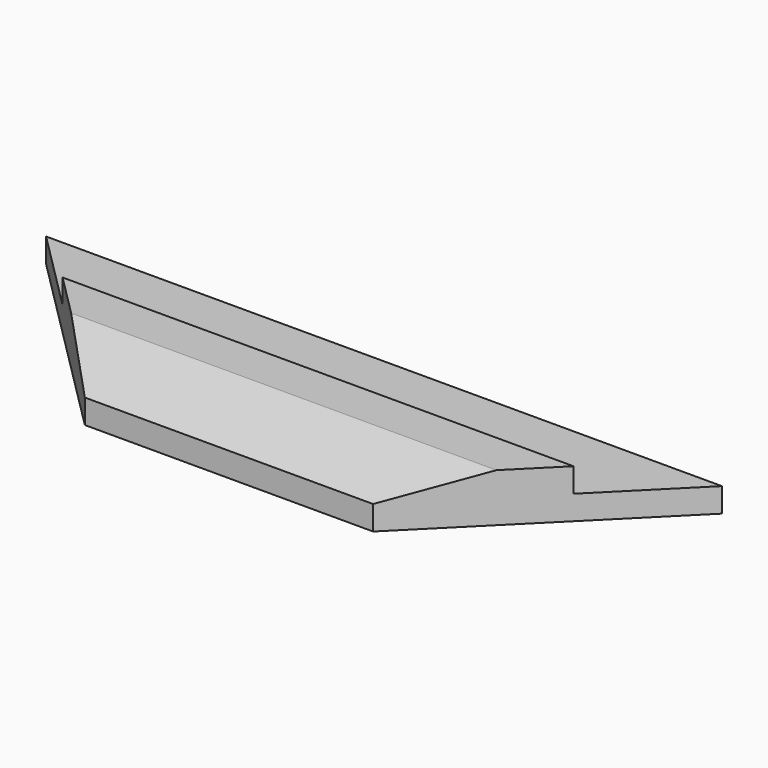
from build123d import *

# Parameters (mm, degrees)
F1_DEPTH = 12.7
F2_DEPTH = 12.7
F3_SIZE2 = 12.7
F3_SIZE  = 35.92068


with BuildPart() as f1:
    # F0 (on Top) → F1 (new body)
    with BuildSketch(Plane.XY):
        Polygon((-254.6055446911, 67.5657510931), (-196.2338046911, 9.1940110931), (-45.1038046911, 9.1940110931), (13.2679353089, 67.5657510931), align=None)
    extrude(amount=F1_DEPTH)

    # F0 (on Top) → F2 (join)
    with BuildSketch(Plane.XY):
        Polygon((-254.6055446911, 67.5657510931), (-196.2338046911, 9.1940110931), (-45.1038046911, 9.1940110931), (13.2679353089, 67.5657510931), align=None)
        Polygon((-297.8338046911, 110.7940110931), (-254.6055446911, 67.5657510931), (13.2679353089, 67.5657510931), (56.4961953089, 110.7940110931), align=None)
    extrude(amount=-F2_DEPTH)

    # F3
    f3_edges = [f1.edges().sort_by_distance(p)[0] for p in [
        (-120.668805, 9.194011, 12.7),
    ]]
    f3_side = f1.faces().sort_by_distance((-120.668805, 41.090487, 12.7))[0]
    chamfer(f3_edges, length=F3_SIZE, length2=F3_SIZE2, reference=f3_side)


solid = f1.part
